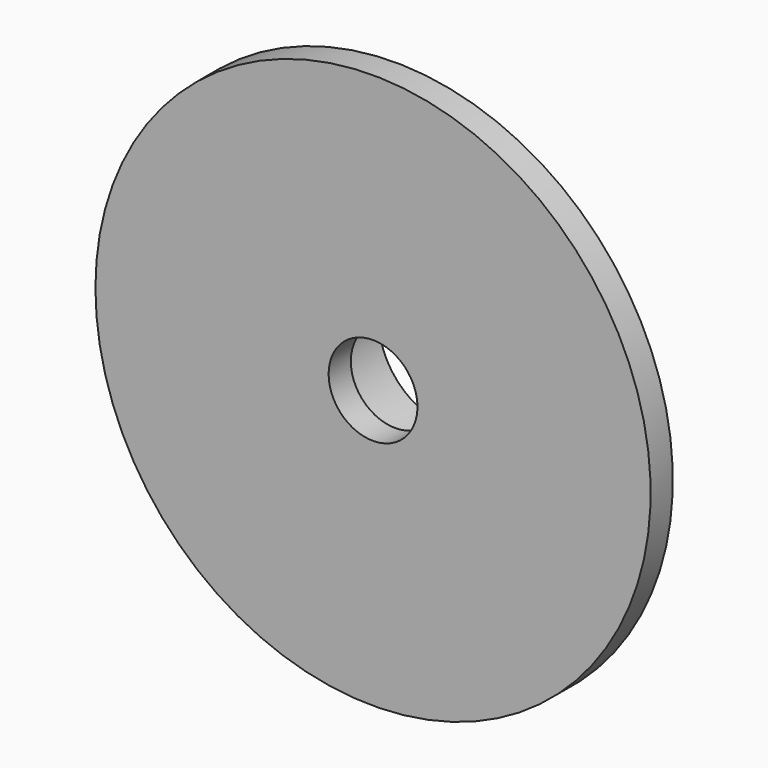
from build123d import *


with BuildPart() as f1:
    # F0 (on Top) → F1 (revolve)
    with BuildSketch(Plane.XY):
        with BuildLine():
            Line((-3.2, 0), (-3.2, 2))
            Line((-3.2, 2), (-5.2, 2))
            Line((-5.2, 2), (-5.2, 7))
            ThreePointArc((-5.2, 7), (-6.664466, 3.464466), (-10.2, 2))
            Line((-10.2, 2), (-20, 2))
            Line((-20, 2), (-20, 0))
            Line((-20, 0), (-3.2, 0))
        make_face()
    revolve(axis=Axis((0, -2.118619, 0), (0, -1, 0)))


solid = f1.part
